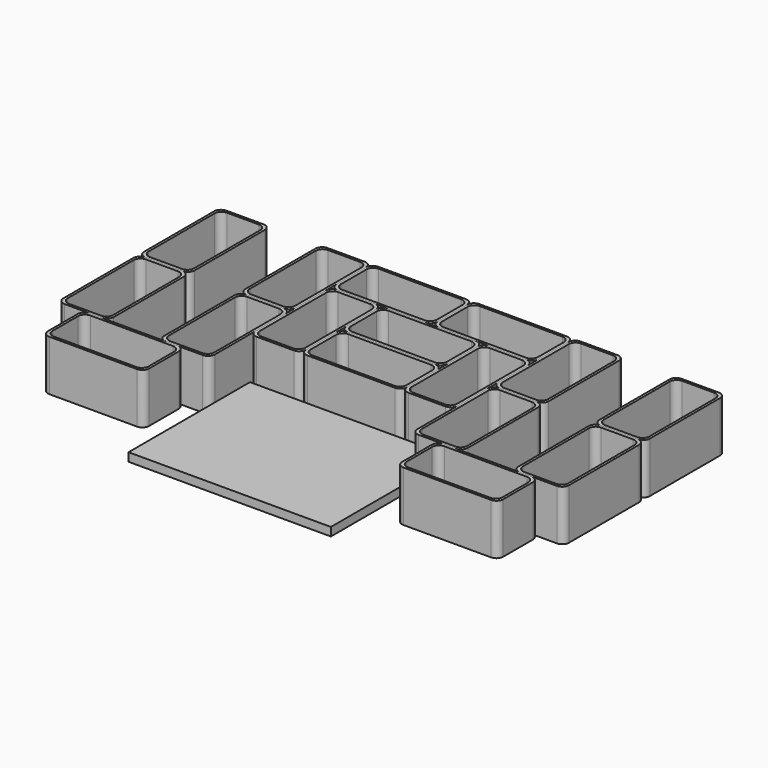
from build123d import *

# Parameters (mm, degrees)
F2_DEPTH  = 300
F4_ANGLE  = 90
F22_DEPTH = 50


with BuildPart() as f2:
    # F1 (on face) → F2 (new body)
    with BuildSketch(Plane.XY):
        with BuildLine():
            Line((300, -110), (300, 110))
            ThreePointArc((300, 110), (288.2842712475, 138.2842712475), (260, 150))
            Line((260, 150), (-260, 150))
            ThreePointArc((-260, 150), (-288.2842712475, 138.2842712475), (-300, 110))
            Line((-300, 110), (-300, -110))
            ThreePointArc((-300, -110), (-288.2842712475, -138.2842712475), (-260, -150))
            Line((-260, -150), (260, -150))
            ThreePointArc((260, -150), (288.2842712475, -138.2842712475), (300, -110))
        make_face()
        with BuildLine():
            Line((-245, 135), (245, 135))
            ThreePointArc((245, 135), (273.2842712475, 123.2842712475), (285, 95))
            Line((285, 95), (285, -95))
            ThreePointArc((285, -95), (273.2842712475, -123.2842712475), (245, -135))
            Line((245, -135), (-245, -135))
            ThreePointArc((-245, -135), (-273.2842712475, -123.2842712475), (-285, -95))
            Line((-285, -95), (-285, 95))
            ThreePointArc((-285, 95), (-273.2842712475, 123.2842712475), (-245, 135))
        make_face(mode=Mode.SUBTRACT)
    extrude(amount=F2_DEPTH)


with BuildPart() as f3_1:
    # F3: copy of F2
    add(f2.part.moved(Location((900, 0, 0))))


with BuildPart() as f4_1:
    # F4: copy of F3_1
    add(f3_1.part.rotate(Axis((615, 95, 150), (0, 0, -1)), F4_ANGLE))


with BuildPart() as f4_1_1:
    # F5: moved
    add(f4_1.part.moved(Location((-70, 40, 0))))


with BuildPart() as f3_1_1:
    # F6: moved
    add(f3_1.part.moved(Location((-1500, 0, 0))))


with BuildPart() as f7_1:
    # F7: copy of F3_1
    add(f3_1_1.part.moved(Location((300, -300, 0))))


with BuildPart() as f8_1:
    # F8: copy of F4_1
    add(f4_1_1.part.moved(Location((300, 0, 0))))


with BuildPart() as f9_1:
    # F9: copy of F7_1
    add(f7_1.part.moved(Location((900, -300, 0))))


with BuildPart() as f9_2:
    # F9: copy of F4_1
    add(f4_1_1.part.moved(Location((900, -300, 0))))


with BuildPart() as f10_1:
    # F10: copy of F4_1
    add(f4_1_1.part.moved(Location((-300, -300, 0))))


with BuildPart() as f9_2_1:
    # F11: moved
    add(f9_2.part.moved(Location((-2100, 0, 0))))


with BuildPart() as f12_1:
    # F12: copy of F7_1
    add(f7_1.part.moved(Location((0, -300, 0))))


with BuildPart() as f13_1:
    # F13: copy of F8_1
    add(f8_1.part.moved(Location((-1800, 0, 0))))


with BuildPart() as f14_1:
    # F14: copy of F13_1
    add(f13_1.part.moved(Location((-300, 0, 0))))


with BuildPart() as f15_1:
    # F15: copy of F9_1
    add(f9_1.part.moved(Location((-1800, 0, 0))))


with BuildPart() as f15_1_1:
    # F16: moved
    add(f15_1.part.moved(Location((0, -600, 0))))


with BuildPart() as f13_1_1:
    # F17: moved
    add(f13_1.part.moved(Location((-300, -600, 0))))


with BuildPart() as f15_1_2:
    # F18: moved
    add(f15_1_1.part.moved(Location((150, 0, 0))))


with BuildPart() as f9_1_1:
    # F19: moved
    add(f9_1.part.moved(Location((-150, -600, 0))))


with BuildPart() as f4_1_2:
    # F20: moved
    add(f4_1_1.part.moved(Location((300, -600, 0))))


with BuildPart() as f22:
    # F21 (on face) → F22 (new body)
    with BuildSketch(Plane.XY):
        Polygon((300, -750), (-900, -750), (-900, -1650), (300, -1650), (300, -1200), align=None)
    extrude(amount=F22_DEPTH)


with BuildPart() as f8_1_1:
    # F23: moved
    add(f8_1.part.moved(Location((-300, 0, 0))))


with BuildPart() as f4_1_3:
    # F24: moved
    add(f4_1_2.part.moved(Location((-300, 0, 0))))


with BuildPart() as f9_1_2:
    # F25: moved
    add(f9_1_1.part.moved(Location((300, 0, 0))))


with BuildPart() as f26_1:
    # F26: copy of F8_1
    add(f8_1_1.part.moved(Location((600, 0, 0))))


with BuildPart() as f27_1:
    # F27: copy of F8_1
    add(f8_1_1.part.moved(Location((600, -600, 0))))


with BuildPart() as f13_1_2:
    # F28: moved
    add(f13_1_1.part.moved(Location((300, 0, 0))))


with BuildPart() as f15_1_3:
    # F29: moved
    add(f15_1_2.part.moved(Location((-300, 0, 0))))


with BuildPart() as f14_1_1:
    # F30: moved
    add(f14_1.part.moved(Location((300, 0, 0))))


with BuildPart() as f31_1:
    # F31: copy of F14_1
    add(f14_1_1.part.moved(Location((-600, 0, 0))))


with BuildPart() as f32_1:
    # F32: copy of F14_1
    add(f14_1_1.part.moved(Location((-600, -600, 0))))


solid = Compound([f2.part, f3_1_1.part, f7_1.part, f10_1.part, f9_2_1.part, f12_1.part, f22.part, f8_1_1.part, f4_1_3.part, f9_1_2.part, f26_1.part, f27_1.part, f13_1_2.part, f15_1_3.part, f14_1_1.part, f31_1.part, f32_1.part])
